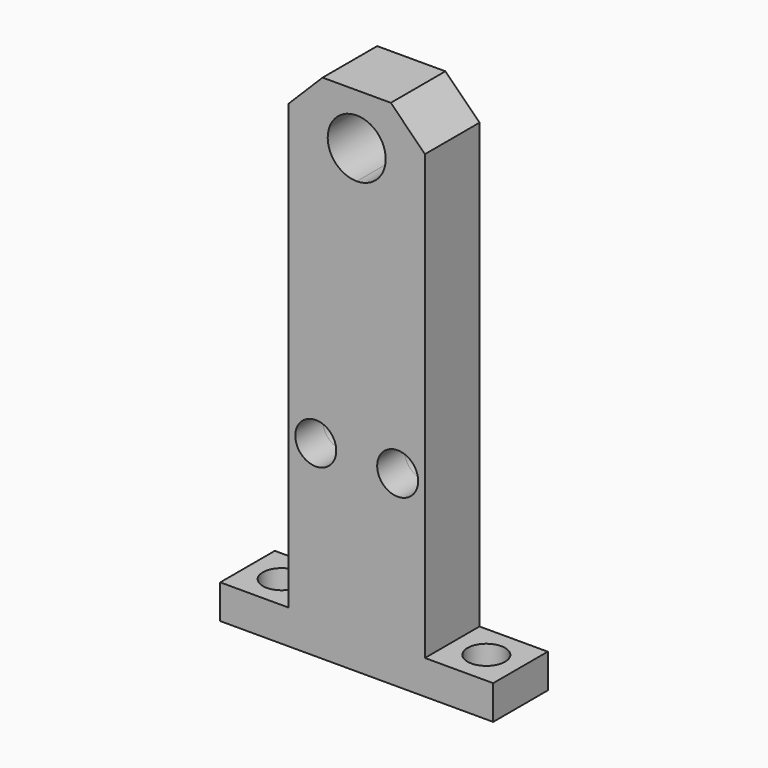
from build123d import *

# Parameters (mm, degrees)
F0_R     = 3
F1_DEPTH = 5
F2_SIZE  = 5
F4_DEPTH = 5


with BuildPart() as f1:
    # F0 (on Front) → F1 (new body, symmetric)
    with BuildSketch(Plane.XZ):
        Polygon((0, 37.5), (-10, 37.5), (-10, -37.5), (10, -37.5), (10, 37.5), align=None)
        with Locations((-6, -10)):
            Circle(F0_R, mode=Mode.SUBTRACT)
        with BuildLine():
            ThreePointArc((9, -10), (6, -13), (3, -10))
            ThreePointArc((3, -10), (6, -7), (9, -10))
        make_face(mode=Mode.SUBTRACT)
        with BuildLine():
            ThreePointArc((0, 25.75), (-4.25, 30), (0, 34.25))
            ThreePointArc((0, 34.25), (3.005204, 33.005204), (4.25, 30))
            ThreePointArc((4.25, 30), (3.005204, 26.994796), (0, 25.75))
        make_face(mode=Mode.SUBTRACT)
    extrude(amount=F1_DEPTH, both=True)

    # F2
    f2_edges = [f1.edges().sort_by_distance(p)[0] for p in [
        (-10, 0, 37.5),
        (10, 0, 37.5),
    ]]
    chamfer(f2_edges, length=F2_SIZE)

    # F3 (on face) → F4 (join)
    with BuildSketch(Plane(origin=(0, 0, -37.5), x_dir=(1, 0, 0), z_dir=(0, 0, -1))):
        Polygon((-10, -5), (-10, 5), (-15, 5), (-20, 5), (-20, -5), align=None)
        with BuildLine():
            ThreePointArc((-12.25, 0), (-16.944544, -1.944544), (-15, 2.75))
            ThreePointArc((-15, 2.75), (-13.055456, 1.944544), (-12.25, 0))
        make_face(mode=Mode.SUBTRACT)
        Polygon((15, 5), (10, 5), (10, -5), (20, -5), (20, 5), align=None)
        with BuildLine():
            ThreePointArc((17.75, 0), (13.055456, -1.944544), (15, 2.75))
            ThreePointArc((15, 2.75), (16.944544, 1.944544), (17.75, 0))
        make_face(mode=Mode.SUBTRACT)
    extrude(amount=-F4_DEPTH)


solid = f1.part
